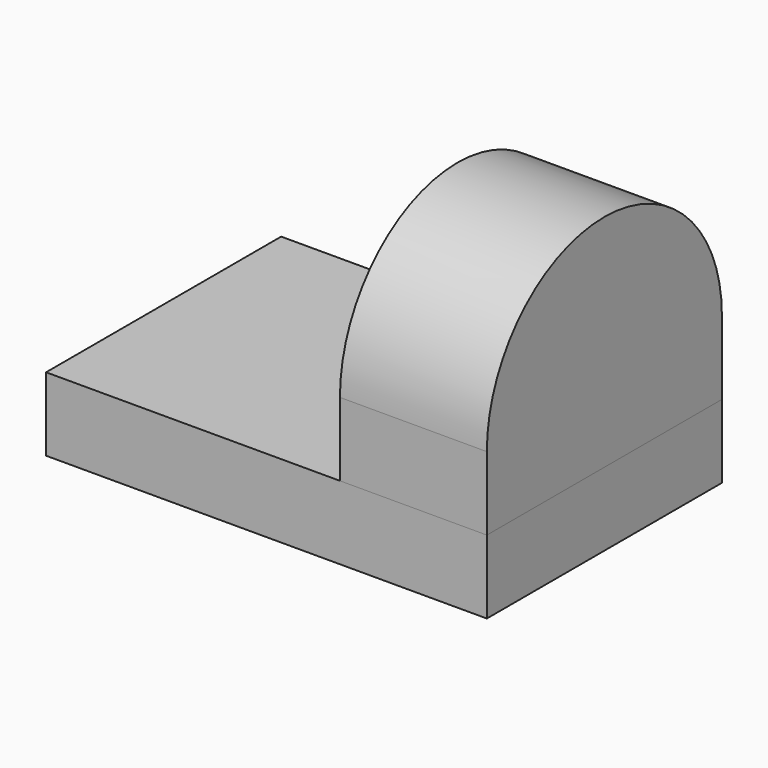
from build123d import *

# Parameters (mm, degrees)
F0_W     = 152.4
F0_H     = 101.6
F1_DEPTH = 25.4
F2_W     = 101.6
F2_H     = 25.4
F3_DEPTH = 50.8


with BuildPart() as f1:
    # F0 (on Top) → F1 (new body)
    with BuildSketch(Plane.XY):
        with Locations((76.2, -50.8)):
            Rectangle(F0_W, F0_H)
    extrude(amount=F1_DEPTH)


with BuildPart() as f3:
    # F2 (on face) → F3 (new body)
    with BuildSketch(Plane.YZ.offset(152.4)):
        with Locations((-50.8, 38.1)):
            Rectangle(F2_W, F2_H)
        with BuildLine():
            ThreePointArc((0, 50.8), (-50.8, 101.6), (-101.6, 50.8))
            Line((-101.6, 50.8), (0, 50.8))
        make_face()
    extrude(amount=-F3_DEPTH)


solid = Compound([f1.part, f3.part])
